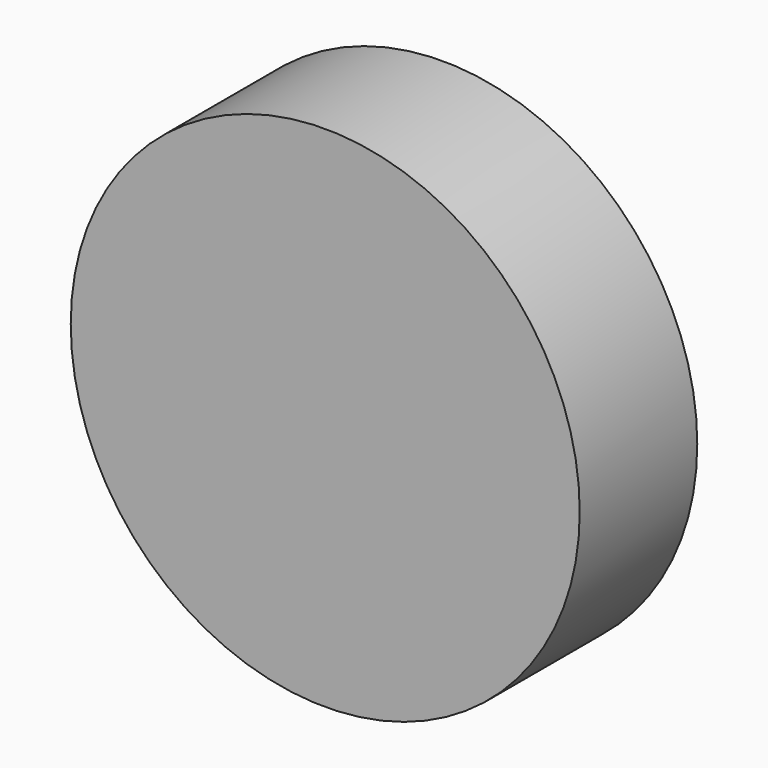
from build123d import *

# Parameters (mm, degrees)
F1_DEPTH = 6.35


with BuildPart() as f1:
    # F0 (on Front) → F1 (new body)
    with BuildSketch(Plane.XZ):
        with BuildLine():
            Line((-11, 0), (11, 0))
            ThreePointArc((11, 0), (0, 11), (-11, 0))
        make_face()
        with BuildLine():
            ThreePointArc((-11, 0), (0, -11), (11, 0))
            Line((11, 0), (-11, 0))
        make_face()
    extrude(amount=F1_DEPTH)


solid = f1.part
